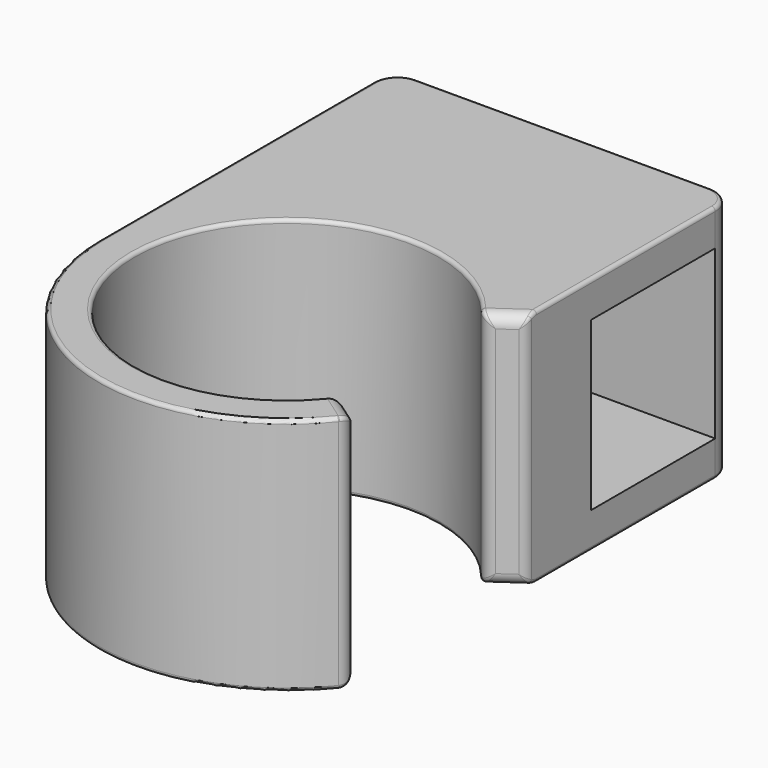
from build123d import *

# Parameters (mm, degrees)
F1_DEPTH      = 10
F1_DEPTH_BACK = 10
F2_DEPTH      = 7
F2_DEPTH_BACK = 7
F3_R          = 3
F4_DEPTH      = 5.1
F5_R          = 1
F6_R          = 0.5
F7_R          = 0.3


with BuildPart() as f1:
    # F0 (on Top) → F1 (new body, two sides)
    with BuildSketch(Plane.XY) as f1_sk:
        with BuildLine():
            ThreePointArc((0, 15.7), (7.2494532278, 13.9260700809), (12.8606870953, 9.0051500507))
            Line((12.8606870953, 9.0051500507), (12.8606870953, 15.7))
            Line((12.8606870953, 15.7), (0, 15.7))
        make_face()
        with BuildLine():
            Line((-15.7, 28.7), (-15.7, 0))
            ThreePointArc((-15.7, 0), (-15.1917740899, 3.9623225512), (-13.7, 7.6681158051))
            Line((-13.7, 7.6681158051), (-13.7, 15.7))
            Line((-13.7, 15.7), (-13.7, 28.7))
            Line((-13.7, 28.7), (12.8606870953, 28.7))
            ThreePointArc((12.8606870953, 28.7), (12.2749006577, 30.1142135624), (10.8606870953, 30.7))
            Line((10.8606870953, 30.7), (-13.7, 30.7))
            ThreePointArc((-13.7, 30.7), (-15.1142135624, 30.1142135624), (-15.7, 28.7))
        make_face()
        Polygon((-13.7, 15.7), (0, 15.7), (12.8606870953, 15.7), (12.8606870953, 28.7), (-13.7, 28.7), align=None)
        with BuildLine():
            ThreePointArc((-13.7, 7.6681158051), (-7.940421332, 13.5439916225), (0, 15.7))
            Line((0, 15.7), (-13.7, 15.7))
            Line((-13.7, 15.7), (-13.7, 7.6681158051))
        make_face()
        with BuildLine():
            ThreePointArc((10.4032309625, -7.2844207417), (-12.7, 0), (10.4032309625, 7.2844207417))
            Line((10.4032309625, 7.2844207417), (12.8606870953, 9.0051500507))
            ThreePointArc((12.8606870953, 9.0051500507), (7.2494532278, 13.9260700809), (0, 15.7))
            ThreePointArc((0, 15.7), (-7.940421332, 13.5439916225), (-13.7, 7.6681158051))
            ThreePointArc((-13.7, 7.6681158051), (-15.1917740899, 3.9623225512), (-15.7, 0))
            ThreePointArc((-15.7, 0), (-4.7210810522, -14.9733561267), (12.8606870953, -9.0051500507))
            Line((12.8606870953, -9.0051500507), (10.4032309625, -7.2844207417))
        make_face()
    extrude(amount=F1_DEPTH)
    extrude(f1_sk.sketch, amount=-F1_DEPTH_BACK)

    # F0 (on Top) → F2 (cut, two sides)
    with BuildSketch(Plane.XY) as f2_sk:
        Polygon((-13.7, 15.7), (0, 15.7), (12.8606870953, 15.7), (12.8606870953, 28.7), (-13.7, 28.7), align=None)
    extrude(amount=F2_DEPTH, mode=Mode.SUBTRACT)
    extrude(f2_sk.sketch, amount=-F2_DEPTH_BACK, mode=Mode.SUBTRACT)

    # F3 (on face) → F4 (cut)
    with BuildSketch(Plane.YZ.offset(-13.7)):
        with Locations((22.2, 0)):
            Circle(F3_R)
    extrude(amount=-F4_DEPTH, mode=Mode.SUBTRACT)

    # F5
    f5_edges = [f1.edges().sort_by_distance(p)[0] for p in [
        (11.631959, -8.144785, 10),
        (10.403231, -7.284421, 0),
        (11.631959, -8.144785, -10),
        (12.860687, -9.00515, 0),
        (10.403231, 7.284421, 0),
        (11.631959, 8.144785, 10),
        (12.860687, 9.00515, 0),
        (11.631959, 8.144785, -10),
    ]]
    fillet(f5_edges, radius=F5_R)

    # F6
    f6_edges = [f1.edges().sort_by_distance(p)[0] for p in [
        (-13.7, 19.2, 0),
        (-14.7, 25.2, 0),
        (-15.7, 19.2, 0),
    ]]
    fillet(f6_edges, radius=F6_R)

    # F7
    f7_edges = [f1.edges().sort_by_distance(p)[0] for p in [
        (12.860687, 19.462962, 10),
        (11.329021, 9.15344, 10),
        (12.274901, 30.114214, 10),
        (-12.7, 0, 10),
        (-1.419656, 30.7, 10),
        (11.028285, -8.942863, 10),
        (-15.114214, 30.114214, 10),
        (12.239221, -9.832316, 10),
        (-15.7, 14.35, 10),
        (-5.227939, -14.804008, 10),
        (12.860687, 19.462962, -10),
        (11.329021, 9.15344, -10),
        (12.274901, 30.114214, -10),
        (-12.7, 0, -10),
        (-1.419656, 30.7, -10),
        (11.028285, -8.942863, -10),
        (-15.114214, 30.114214, -10),
        (12.239221, -9.832316, -10),
        (-15.7, 14.35, -10),
        (-5.227939, -14.804008, -10),
    ]]
    fillet(f7_edges, radius=F7_R)


solid = f1.part
